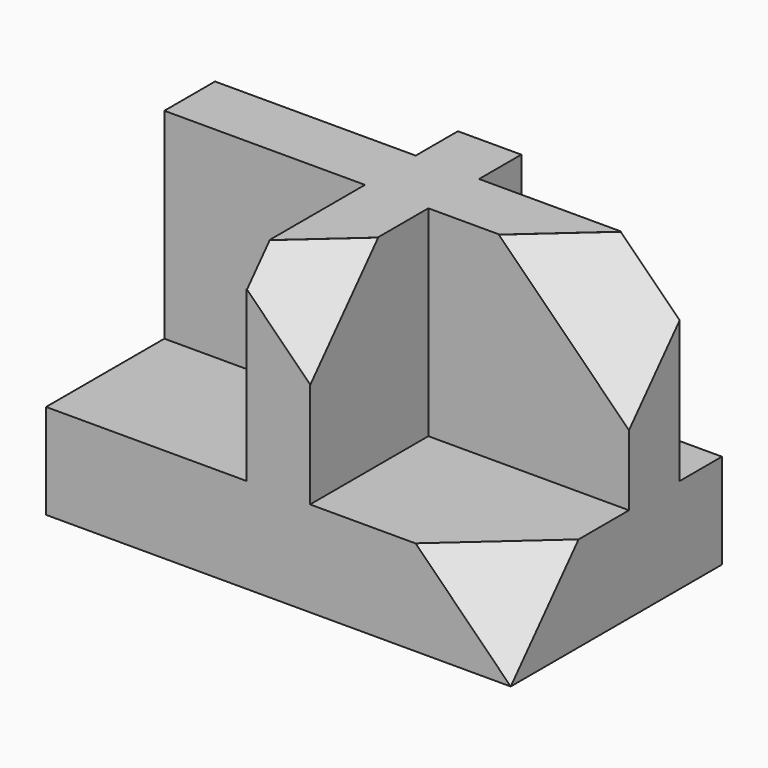
from build123d import *

# Parameters (mm, degrees)
F1_DEPTH = 1422.4
F0_W     = 965.2
F0_H     = 254
F0_H_2   = 711.2
F2_DEPTH = 457.2
F8_DEPTH = 508


with BuildPart() as f1:
    # F0 (on Top) → F1 (new body)
    with BuildSketch(Plane.XY):
        Polygon((-1270, 0), (-965.2, 0), (-965.2, 711.2), (0, 711.2), (0, 1016), (-965.2, 1016), (-965.2, 1270), (-1270, 1270), (-1270, 1016), (-2235.2, 1016), (-2235.2, 711.2), (-1270, 711.2), align=None)
    extrude(amount=F1_DEPTH)

    # F0 (on Top) → F2 (join)
    with BuildSketch(Plane.XY):
        with Locations((-1752.6, 1143)):
            Rectangle(F0_W, F0_H)
        with Locations((-482.6, 1143)):
            Rectangle(F0_W, F0_H)
        with Locations((-1752.6, 355.6)):
            Rectangle(F0_W, F0_H_2)
        with Locations((-482.6, 355.6)):
            Rectangle(F0_W, F0_H_2)
    extrude(amount=F2_DEPTH)

    # F7 (on 3pt) → F8 (cut)
    with BuildSketch(Plane(origin=(0, 0, 0), x_dir=(0.8331213628, 0.4125708276, -0.3683668104), z_dir=(0.553090223, -0.6214566012, 0.5548719654))):
        Polygon((0, 0), (0, 1904.3694734573), (-1708.9967775732, 1061.0217298967), align=None)
    extrude(amount=F8_DEPTH, mode=Mode.SUBTRACT)


solid = f1.part
